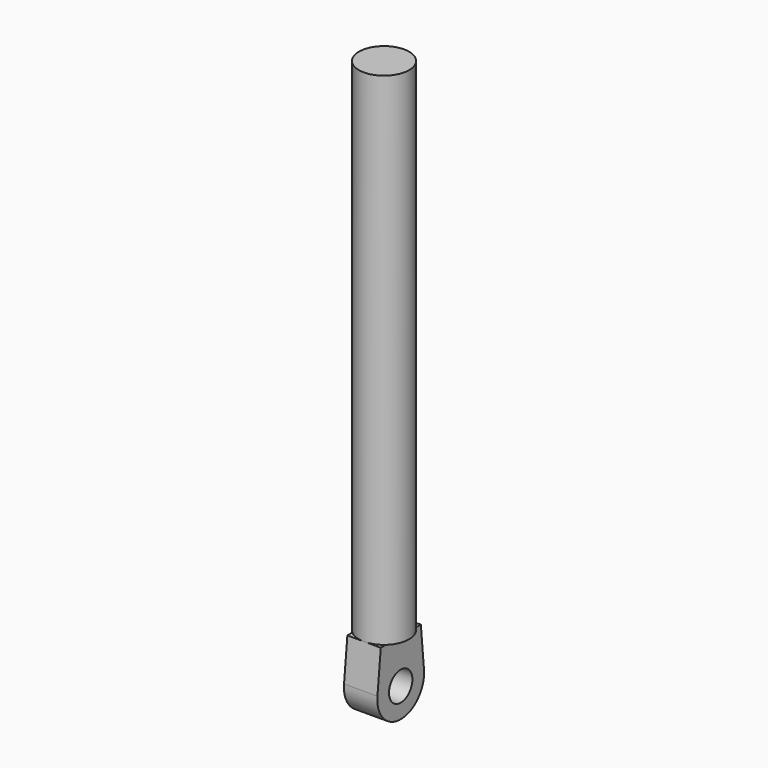
from build123d import *

# Parameters (mm, degrees)
F0_R     = 30
F1_DEPTH = 600
F3_DEPTH = 20
F4_R     = 17.5
F5_DEPTH = 50


with BuildPart() as f1:
    # F0 (on Top) → F1 (new body)
    with BuildSketch(Plane.XY):
        Circle(F0_R)
    extrude(amount=F1_DEPTH)

    # F2 (on Right) → F3 (join, symmetric)
    with BuildSketch(Plane.YZ):
        with BuildLine():
            Line((-29.826352, 0), (-34.819973, -49.043968))
            ThreePointArc((-34.819973, -49.043968), (-0.122433, -87.589098), (34.843925, -49.287659))
            Line((34.843925, -49.287659), (30.173648, 0))
            Line((30.173648, 0), (-29.826352, 0))
        make_face()
    extrude(amount=F3_DEPTH, both=True)

    # F4 (on face) → F5 (cut)
    with BuildSketch(Plane(origin=(-20, 0, 0), x_dir=(0, -1, 0), z_dir=(-1, 0, 0))):
        with Locations((0, -52.589312)):
            Circle(F4_R)
    extrude(amount=-F5_DEPTH, mode=Mode.SUBTRACT)


solid = f1.part
